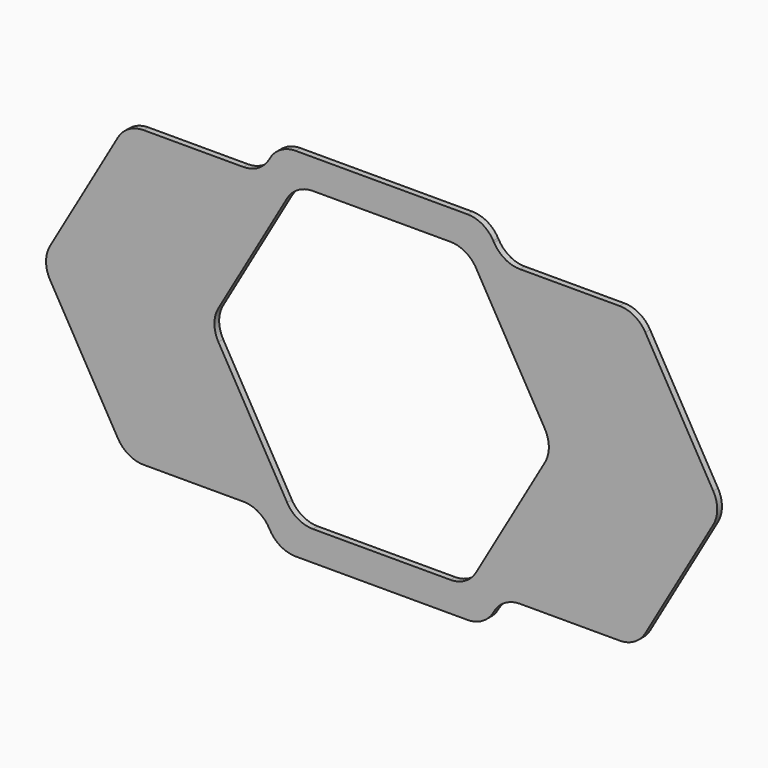
from build123d import *

# Parameters (mm, degrees)
F1_DEPTH = 5.08
F2_R     = 25.4


with BuildPart() as f1:
    # F0 (on Front) → F1 (new body)
    with BuildSketch(Plane.XZ):
        Polygon((-72.5902493452, -125.73), (41.7943859866, -125.73), (-30.7958633586, 0), (41.7943859866, 125.73), (-72.5902493452, 125.73), (-145.1804986904, 0), align=None)
        Polygon((41.7943859866, -125.73), (71.1237796615, -125.73), (-1.4664696837, 0), (71.1237796615, 125.73), (41.7943859866, 125.73), (-30.7958633586, 0), align=None)
        Polygon((41.7943859866, 125.73), (71.1237796615, 125.73), (71.8570145033, 127), (218.5039828775, 127), (219.2372177194, 125.73), (248.5666113942, 125.73), (233.1686797149, 152.4), (57.1923176659, 152.4), align=None)
        Polygon((291.8274670646, 0), (219.2372177194, -125.73), (248.5666113942, -125.73), (321.1568607394, 0), (248.5666113942, 125.73), (219.2372177194, 125.73), align=None)
        Polygon((321.1568607394, 0), (248.5666113942, -125.73), (362.9512467261, -125.73), (435.5414960713, 0), (362.9512467261, 125.73), (248.5666113942, 125.73), align=None)
        Polygon((71.8570145033, -127), (71.1237796615, -125.73), (41.7943859866, -125.73), (57.1923176659, -152.4), (233.1686797149, -152.4), (248.5666113942, -125.73), (219.2372177194, -125.73), (218.5039828775, -127), align=None)
    extrude(amount=F1_DEPTH)

    # F2
    f2_edges = [f1.edges().sort_by_distance(p)[0] for p in [
        (41.794386, -2.54, 125.73),
        (-72.590249, -2.54, 125.73),
        (-145.180499, -2.54, 0),
        (-72.590249, -2.54, -125.73),
        (41.794386, -2.54, -125.73),
        (57.192318, -2.54, -152.4),
        (233.16868, -2.54, -152.4),
        (248.566611, -2.54, -125.73),
        (362.951247, -2.54, -125.73),
        (435.541496, -2.54, 0),
        (362.951247, -2.54, 125.73),
        (248.566611, -2.54, 125.73),
        (233.16868, -2.54, 152.4),
        (57.192318, -2.54, 152.4),
        (71.857015, -2.54, 127),
        (218.503983, -2.54, 127),
        (291.827467, -2.54, 0),
        (218.503983, -2.54, -127),
        (71.857015, -2.54, -127),
        (-1.46647, -2.54, 0),
    ]]
    fillet(f2_edges, radius=F2_R)


solid = f1.part
